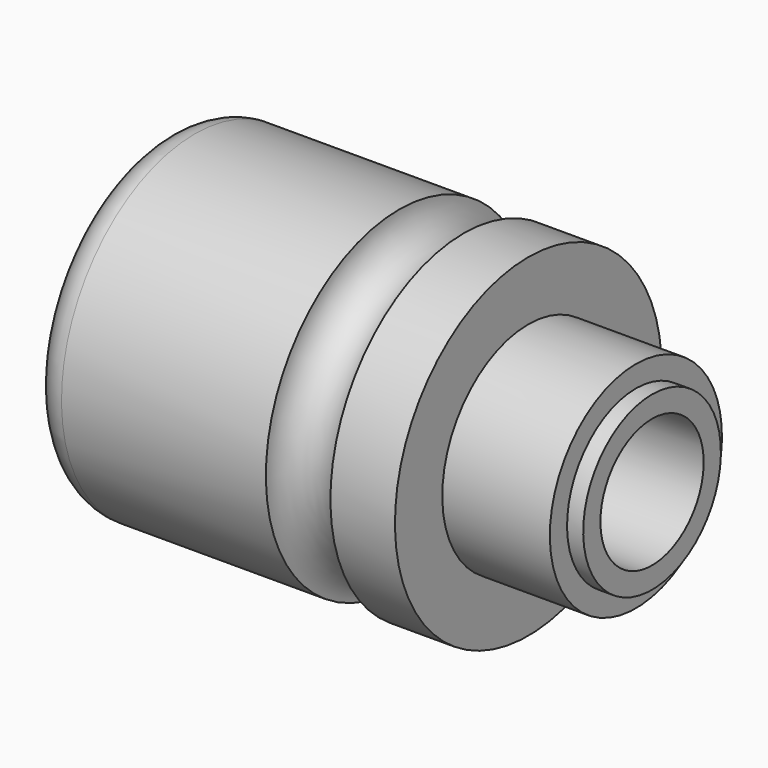
from build123d import *


with BuildPart() as f1:
    # F0 (on Front) → F1 (revolve)
    with BuildSketch(Plane.XZ):
        with BuildLine():
            ThreePointArc((6, 31), (1.757359, 29.242641), (0, 25))
            Line((0, 25), (1.5, 25))
            Line((1.5, 25), (1.5, 16))
            Line((1.5, 16), (12, 16))
            Line((12, 16), (12, 13))
            Line((12, 13), (15, 13))
            Line((15, 13), (15, 20.5))
            Line((15, 20.5), (22, 20.5))
            Line((22, 20.5), (22, 16))
            Line((22, 16), (30, 16))
            Line((30, 16), (30, 12))
            Line((30, 12), (91, 12))
            Line((91, 12), (91, 16))
            Line((91, 16), (88, 16))
            Line((88, 16), (88, 20))
            Line((88, 20), (68, 20))
            Line((68, 20), (68, 31))
            Line((68, 31), (56, 31))
            ThreePointArc((56, 31), (50, 25), (44, 31))
            Line((44, 31), (6, 31))
        make_face()
    revolve(axis=Axis((45.5, 0, 0), (-1, 0, 0)))


solid = f1.part
